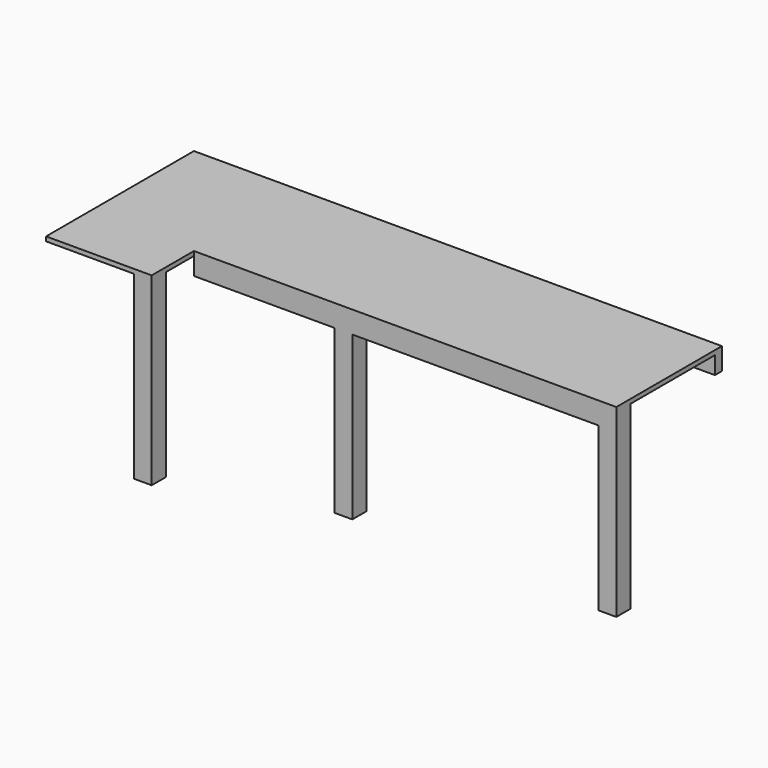
from build123d import *

# Parameters (mm, degrees)
F1_DEPTH = 1
F2_W     = 4
F2_H     = 4
F3_DEPTH = 41
F4_W     = 120
F4_H     = 2
F4_W_2   = 32
F4_W_3   = 56
F5_DEPTH = 4


with BuildPart() as f1:
    # F0 (on Top) → F1 (new body)
    with BuildSketch(Plane.XY):
        Polygon((0, 42), (0, 0), (24, 0), (24, 12), (120, 12), (120, 42), align=None)
    extrude(amount=F1_DEPTH)

    # F2 (on face) → F3 (join)
    with BuildSketch(Plane(origin=(0, 0, 0), x_dir=(1, 0, 0), z_dir=(0, 0, -1))):
        with Locations((22, -2)):
            Rectangle(F2_W, F2_H)
        with Locations((58, -14)):
            Rectangle(F2_W, F2_H)
        with Locations((118, -14)):
            Rectangle(F2_W, F2_H)
    extrude(amount=F3_DEPTH)

    # F4 (on face) → F5 (join)
    with BuildSketch(Plane(origin=(0, 0, 0), x_dir=(1, 0, 0), z_dir=(0, 0, -1))):
        with Locations((60, -41)):
            Rectangle(F4_W, F4_H)
        with Locations((40, -13)):
            Rectangle(F4_W_2, F4_H)
        with Locations((88, -13)):
            Rectangle(F4_W_3, F4_H)
    extrude(amount=F5_DEPTH)


solid = f1.part
